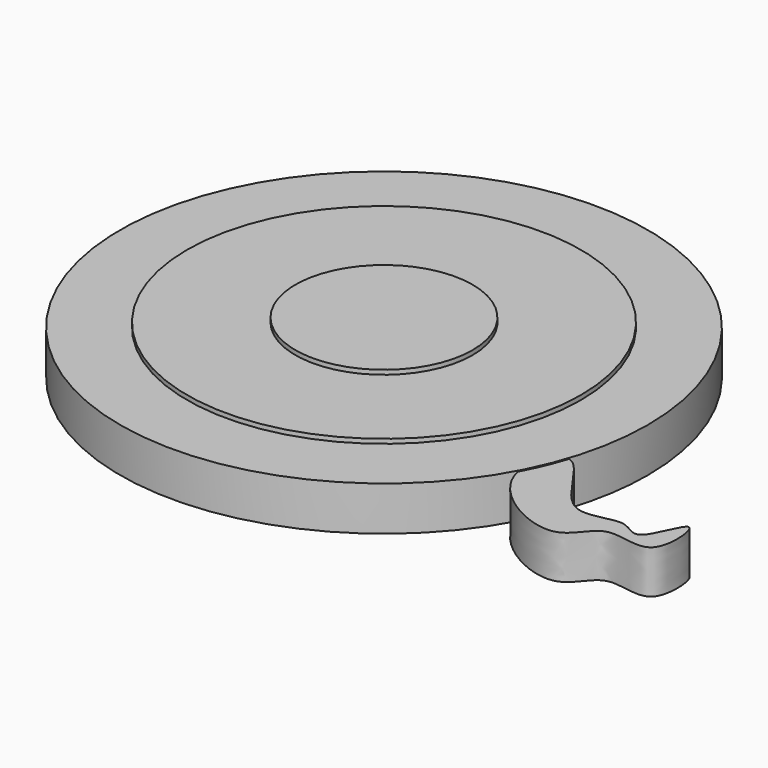
from build123d import *

# Parameters (mm, degrees)
F0_R     = 59.6224836618
F1_DEPTH = 10
F3_DEPTH = 9.8
F4_R     = 44.4747634624
F5_DEPTH = 1
F6_R     = 20.0209897177
F7_DEPTH = 1


with BuildPart() as f1:
    # F0 (on Top) → F1 (new body)
    with BuildSketch(Plane.XY):
        Circle(F0_R)
    extrude(amount=F1_DEPTH)

    # F2 (on Top) → F3 (join)
    with BuildSketch(Plane.XY):
        with BuildLine():
            add(Edge.make_bspline(
                [(56.5130375326, -18.5544081032), (60.0763262418, -18.9953652644), (67.3262792735, -37.6573614559), (79.3351223139, -29.3947307126), (85.1575232368, -36.9354653922), (89.9066222538, -18.7235374034), (92.2681941092, -40.6508908401), (77.3666407475, -32.7165747954), (73.9125938653, -47.1112836436), (47.7879996897, -32.6872077765), (53.6922975171, -18.2053413812), (56.5130375326, -18.5544081032)],
                knots=[0, 0, 0, 0, 0.1415353666, 0.2482449813, 0.3240555858, 0.4231297511, 0.5268963376, 0.6322159605, 0.7314599749, 0.8879589882, 1, 1, 1, 1], degree=3))
        make_face()
    extrude(amount=F3_DEPTH)

    # F4 (on face) → F5 (join)
    with BuildSketch(Plane.XY.offset(10)):
        Circle(F4_R)
    extrude(amount=F5_DEPTH)

    # F6 (on face) → F7 (join)
    with BuildSketch(Plane.XY.offset(11)):
        Circle(F6_R)
    extrude(amount=F7_DEPTH)


solid = f1.part
